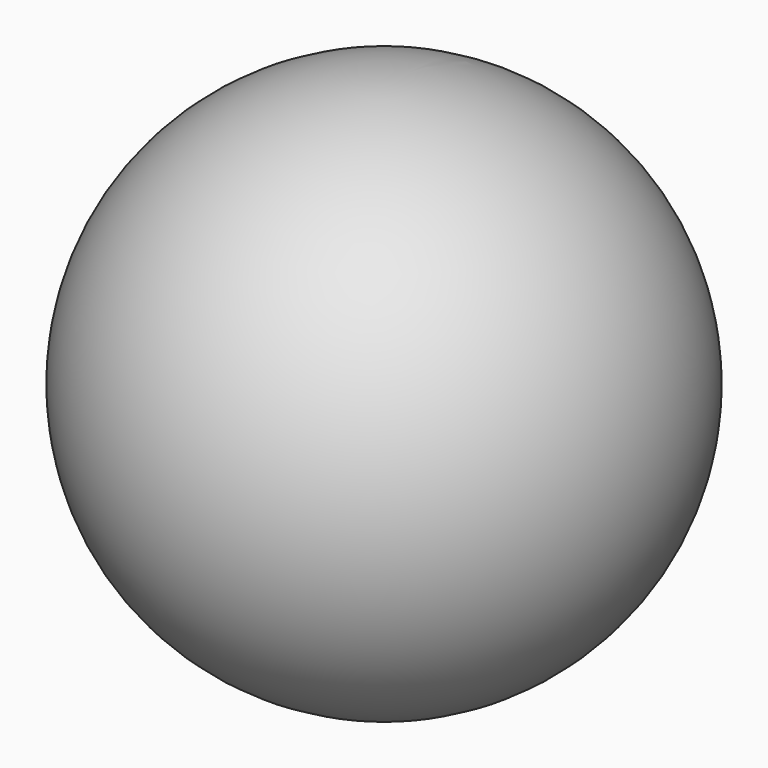
from build123d import *


with BuildPart() as f1:
    # F0 (on Right) → F1 (revolve)
    with BuildSketch(Plane.YZ):
        with BuildLine():
            Line((0, 5), (0, -5))
            ThreePointArc((0, -5), (5, 0), (0, 5))
        make_face()
    revolve(axis=Axis((0, 0, 0), (0, 0, 1)))


with BuildPart() as f2:
    # F0 (on Right) → F2 (revolve)
    with BuildSketch(Plane.YZ):
        with BuildLine():
            ThreePointArc((0, 5.5), (5.5, 0), (0, -5.5))
            Line((0, -5.5), (0, -8))
            ThreePointArc((0, -8), (8, 0), (0, 8))
            Line((0, 8), (0, 5.5))
        make_face()
    revolve(axis=Axis((0, 0, 6.5), (0, 0, 1)))


solid = Compound([f1.part, f2.part])
